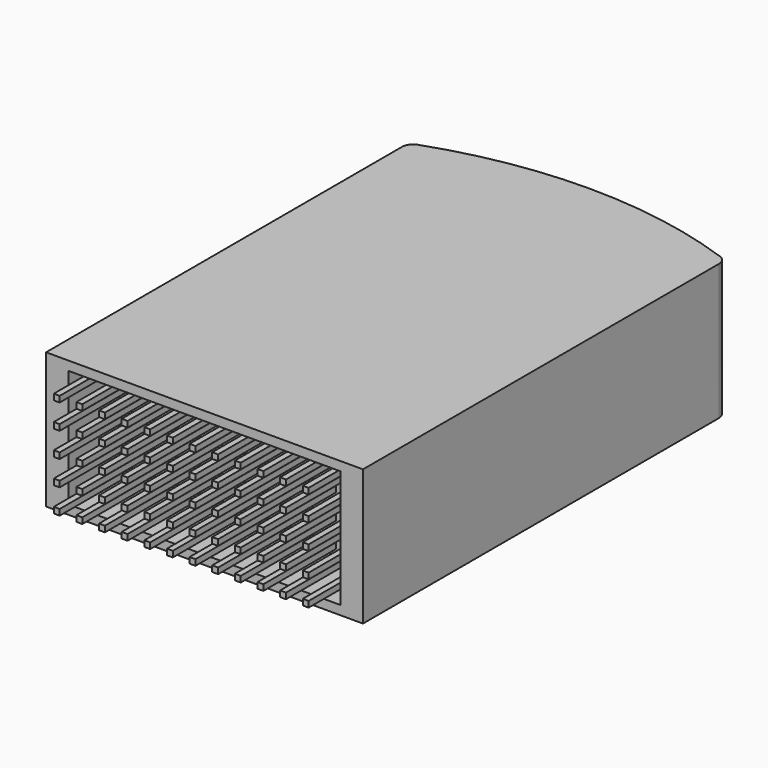
from build123d import *

# Parameters (mm, degrees)
F0_W     = 35
F0_H     = 50
F1_DEPTH = 7.5
F2_R     = 1.25
F3_W     = 30
F3_H     = 13
F4_DEPTH = 7
F5_W     = 0.65
F5_H     = 0.65
F6_DEPTH = 10


with BuildPart() as f1:
    # F0 (on Top) → F1 (new body, symmetric)
    with BuildSketch(Plane.XY):
        Rectangle(F0_W, F0_H)
        with BuildLine():
            Line((-17.5, 25), (17.5, 25))
            ThreePointArc((17.5, 25), (0, 28.162515012), (-17.5, 25))
        make_face()
    extrude(amount=F1_DEPTH, both=True)

    # F2
    f2_edges = [f1.edges().sort_by_distance(p)[0] for p in [
        (17.5, 25, 0),
        (-17.5, 25, 0),
    ]]
    fillet(f2_edges, radius=F2_R)

    # F3 (on face) → F4 (cut)
    with BuildSketch(Plane.XZ.offset(25)):
        Rectangle(F3_W, F3_H)
    extrude(amount=-F4_DEPTH, mode=Mode.SUBTRACT)

    # F5 (on face) → F6 (join)
    with BuildSketch(Plane.XZ.offset(18)):
        with Locations((-13.925, 5.425)):
            Rectangle(F5_W, F5_H)
        with Locations((-11.425, 5.425)):
            Rectangle(F5_W, F5_H)
        with Locations((-8.925, 5.425)):
            Rectangle(F5_W, F5_H)
        with Locations((-6.425, 5.425)):
            Rectangle(F5_W, F5_H)
        with Locations((-3.925, 5.425)):
            Rectangle(F5_W, F5_H)
        with Locations((-1.425, 5.425)):
            Rectangle(F5_W, F5_H)
        with Locations((1.075, 5.425)):
            Rectangle(F5_W, F5_H)
        with Locations((3.575, 5.425)):
            Rectangle(F5_W, F5_H)
        with Locations((6.075, 5.425)):
            Rectangle(F5_W, F5_H)
        with Locations((8.575, 5.425)):
            Rectangle(F5_W, F5_H)
        with Locations((11.075, 5.425)):
            Rectangle(F5_W, F5_H)
        with Locations((13.575, 5.425)):
            Rectangle(F5_W, F5_H)
        with Locations((1.075, 2.675)):
            Rectangle(F5_W, F5_H)
        with Locations((-6.425, 2.675)):
            Rectangle(F5_W, F5_H)
        with Locations((11.075, 2.675)):
            Rectangle(F5_W, F5_H)
        with Locations((6.075, 2.675)):
            Rectangle(F5_W, F5_H)
        with Locations((-3.925, 2.675)):
            Rectangle(F5_W, F5_H)
        with Locations((3.575, 2.675)):
            Rectangle(F5_W, F5_H)
        with Locations((8.575, 2.675)):
            Rectangle(F5_W, F5_H)
        with Locations((13.575, 2.675)):
            Rectangle(F5_W, F5_H)
        with Locations((-1.425, 2.675)):
            Rectangle(F5_W, F5_H)
        with Locations((-8.925, 2.675)):
            Rectangle(F5_W, F5_H)
        with Locations((-11.425, 2.675)):
            Rectangle(F5_W, F5_H)
        with Locations((-13.925, 2.675)):
            Rectangle(F5_W, F5_H)
        with Locations((1.075, -0.075)):
            Rectangle(F5_W, F5_H)
        with Locations((-6.425, -0.075)):
            Rectangle(F5_W, F5_H)
        with Locations((11.075, -0.075)):
            Rectangle(F5_W, F5_H)
        with Locations((6.075, -0.075)):
            Rectangle(F5_W, F5_H)
        with Locations((-3.925, -0.075)):
            Rectangle(F5_W, F5_H)
        with Locations((3.575, -0.075)):
            Rectangle(F5_W, F5_H)
        with Locations((8.575, -0.075)):
            Rectangle(F5_W, F5_H)
        with Locations((13.575, -0.075)):
            Rectangle(F5_W, F5_H)
        with Locations((-1.425, -0.075)):
            Rectangle(F5_W, F5_H)
        with Locations((-8.925, -0.075)):
            Rectangle(F5_W, F5_H)
        with Locations((-11.425, -0.075)):
            Rectangle(F5_W, F5_H)
        with Locations((-13.925, -0.075)):
            Rectangle(F5_W, F5_H)
        with Locations((1.075, -2.825)):
            Rectangle(F5_W, F5_H)
        with Locations((-6.425, -2.825)):
            Rectangle(F5_W, F5_H)
        with Locations((11.075, -2.825)):
            Rectangle(F5_W, F5_H)
        with Locations((6.075, -2.825)):
            Rectangle(F5_W, F5_H)
        with Locations((-3.925, -2.825)):
            Rectangle(F5_W, F5_H)
        with Locations((3.575, -2.825)):
            Rectangle(F5_W, F5_H)
        with Locations((8.575, -2.825)):
            Rectangle(F5_W, F5_H)
        with Locations((13.575, -2.825)):
            Rectangle(F5_W, F5_H)
        with Locations((-1.425, -2.825)):
            Rectangle(F5_W, F5_H)
        with Locations((-8.925, -2.825)):
            Rectangle(F5_W, F5_H)
        with Locations((-11.425, -2.825)):
            Rectangle(F5_W, F5_H)
        with Locations((-13.925, -2.825)):
            Rectangle(F5_W, F5_H)
        with Locations((1.075, -5.575)):
            Rectangle(F5_W, F5_H)
        with Locations((-6.425, -5.575)):
            Rectangle(F5_W, F5_H)
        with Locations((11.075, -5.575)):
            Rectangle(F5_W, F5_H)
        with Locations((6.075, -5.575)):
            Rectangle(F5_W, F5_H)
        with Locations((-3.925, -5.575)):
            Rectangle(F5_W, F5_H)
        with Locations((3.575, -5.575)):
            Rectangle(F5_W, F5_H)
        with Locations((8.575, -5.575)):
            Rectangle(F5_W, F5_H)
        with Locations((13.575, -5.575)):
            Rectangle(F5_W, F5_H)
        with Locations((-1.425, -5.575)):
            Rectangle(F5_W, F5_H)
        with Locations((-8.925, -5.575)):
            Rectangle(F5_W, F5_H)
        with Locations((-11.425, -5.575)):
            Rectangle(F5_W, F5_H)
        with Locations((-13.925, -5.575)):
            Rectangle(F5_W, F5_H)
    extrude(amount=F6_DEPTH)


solid = f1.part
